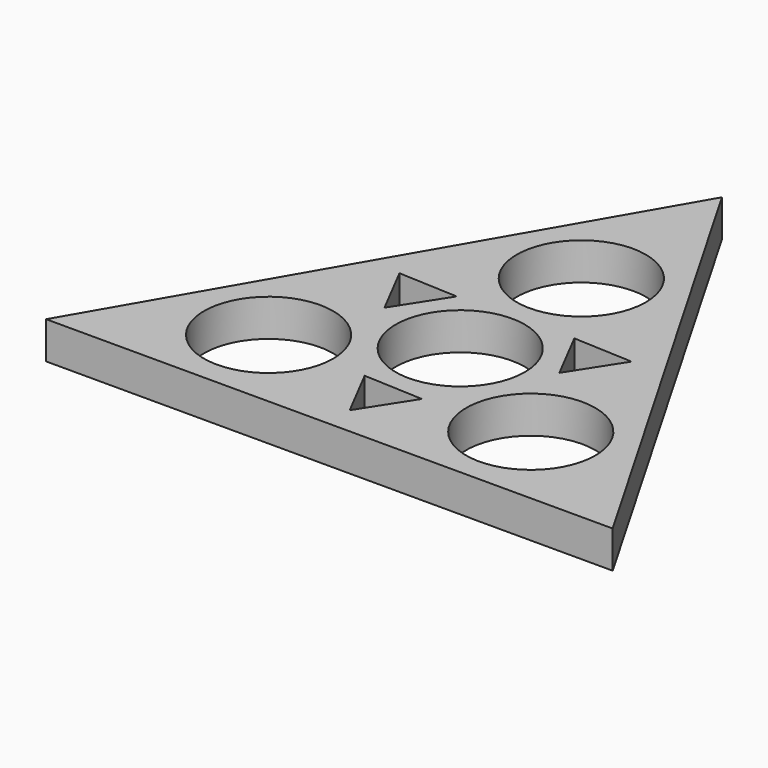
from build123d import *

# Parameters (mm, degrees)
F0_R     = 11.0236
F1_DEPTH = 6.35
F3_DEPTH = 6.35


with BuildPart() as f1:
    # F0 (on Top) → F1 (new body)
    with BuildSketch(Plane.XY):
        Polygon((-48.3935, -27.94), (48.3935, -27.94), (0, 55.88), align=None)
        with Locations((-22.392992, -12.9286)):
            Circle(F0_R, mode=Mode.SUBTRACT)
        with Locations((22.392992, -12.9286)):
            Circle(F0_R, mode=Mode.SUBTRACT)
        Circle(F0_R, mode=Mode.SUBTRACT)
        with Locations((0, 25.8572)):
            Circle(F0_R, mode=Mode.SUBTRACT)
    extrude(amount=F1_DEPTH)

    # F2 (on face) → F3 (cut)
    with BuildSketch(Plane.XY.offset(6.35)):
        Polygon((-9.740262, 11.409466), (-19.889175, 11.883968), (-15.225649, 2.8575), align=None)
        Polygon((5.138157, -14.614549), (-5.010757, -14.140047), (-0.347231, -23.166515), align=None)
        Polygon((10.087492, 11.757049), (14.751018, 2.730581), (20.236406, 11.282547), align=None)
    extrude(amount=-F3_DEPTH, mode=Mode.SUBTRACT)


solid = f1.part
